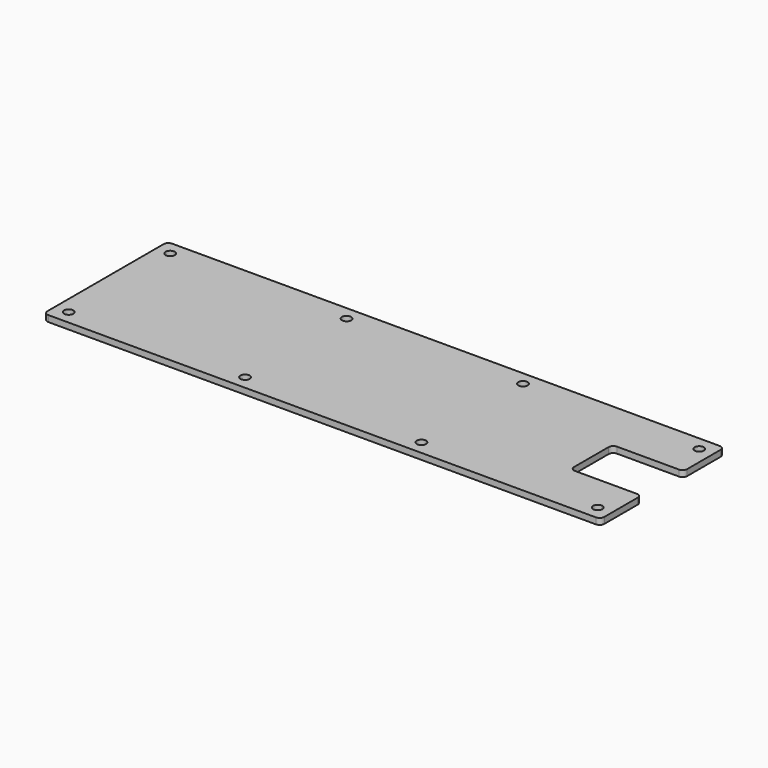
from build123d import *

# Parameters (mm, degrees)
F1_DEPTH = 2
F2_R     = 1.5
F3_DEPTH = 2.001


with BuildPart() as f1:
    # F0 (on Top) → F1 (new body)
    with BuildSketch(Plane.XY):
        with BuildLine():
            Line((88.5, 25), (-88.5, 25))
            ThreePointArc((-88.5, 25), (-89.56066, 24.56066), (-90, 23.5))
            Line((-90, 23.5), (-90, -23.5))
            ThreePointArc((-90, -23.5), (-89.56066, -24.56066), (-88.5, -25))
            Line((-88.5, -25), (88.5, -25))
            ThreePointArc((88.5, -25), (89.56066, -24.56066), (90, -23.5))
            Line((90, -23.5), (90, -10))
            ThreePointArc((90, -10), (89.56066, -8.93934), (88.5, -8.5))
            Line((88.5, -8.5), (68.5, -8.5))
            ThreePointArc((68.5, -8.5), (67.43934, -8.06066), (67, -7))
            Line((67, -7), (67, 7))
            ThreePointArc((67, 7), (67.43934, 8.06066), (68.5, 8.5))
            Line((68.5, 8.5), (88.5, 8.5))
            ThreePointArc((88.5, 8.5), (89.56066, 8.93934), (90, 10))
            Line((90, 10), (90, 23.5))
            ThreePointArc((90, 23.5), (89.56066, 24.56066), (88.5, 25))
        make_face()
    extrude(amount=F1_DEPTH)

    # F2 (on face) → F3 (cut, through all)
    with BuildSketch(Plane.XY.offset(2)):
        with Locations((-85.5, 20.5)):
            Circle(F2_R)
        with Locations((-85.5, -20.5)):
            Circle(F2_R)
        with Locations((-28.5, -20.5)):
            Circle(F2_R)
        with Locations((-28.5, 20.5)):
            Circle(F2_R)
        with Locations((28.5, -20.5)):
            Circle(F2_R)
        with Locations((28.5, 20.5)):
            Circle(F2_R)
        with Locations((85.5, -20.5)):
            Circle(F2_R)
        with Locations((85.5, 20.5)):
            Circle(F2_R)
    extrude(amount=-F3_DEPTH, mode=Mode.SUBTRACT)


solid = f1.part
